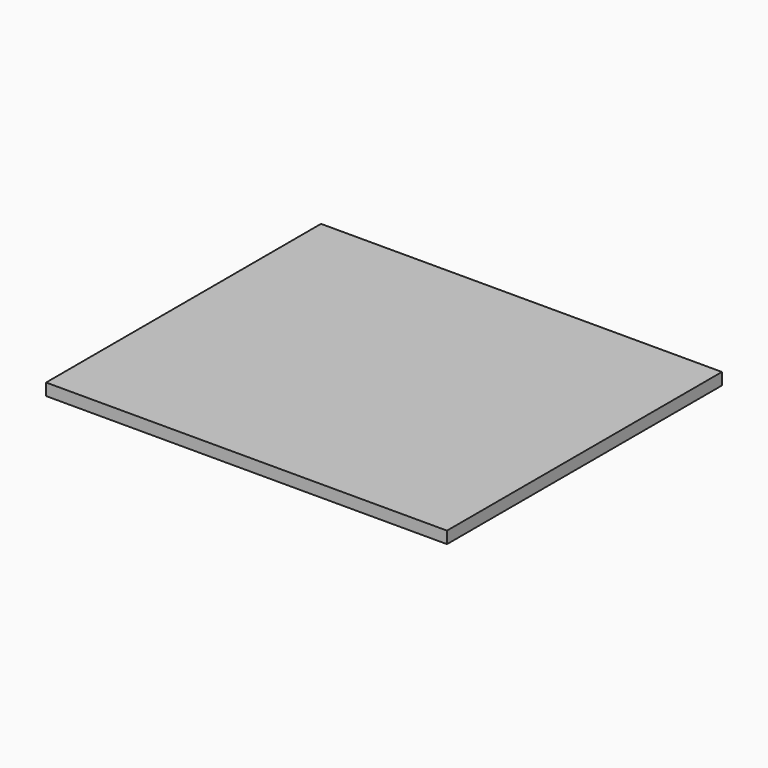
from build123d import *

# Parameters (mm, degrees)
F0_W     = 2133.6
F0_H     = 1828.8
F1_DEPTH = 12.7
F2_W     = 2133.6
F2_H     = 1828.8
F2_W_2   = 127
F2_H_2   = 127
F2_W_3   = 177.8
F2_H_3   = 177.8
F2_H_4   = 355.6
F2_W_4   = 152.4
F3_DEPTH = 50.8


with BuildPart() as f1:
    # F0 (on Top) → F1 (new body)
    with BuildSketch(Plane.XY):
        with Locations((-1066.8, 914.4)):
            Rectangle(F0_W, F0_H)
    extrude(amount=-F1_DEPTH)

    # F2 (on face) → F3 (join)
    with BuildSketch(Plane(origin=(0, 0, -12.7), x_dir=(1, 0, 0), z_dir=(0, 0, -1))):
        with Locations((-1066.8, -914.4)):
            Rectangle(F2_W, F2_H)
        with Locations((-2044.7, -1739.9)):
            Rectangle(F2_W_2, F2_H_2, mode=Mode.SUBTRACT)
        with Locations((-1892.3, -1739.9)):
            Rectangle(F2_W_2, F2_H_2, mode=Mode.SUBTRACT)
        with Locations((-1714.5, -1739.9)):
            Rectangle(F2_W_3, F2_H_2, mode=Mode.SUBTRACT)
        with Locations((-2044.7, -1587.5)):
            Rectangle(F2_W_2, F2_H_2, mode=Mode.SUBTRACT)
        with Locations((-1892.3, -1587.5)):
            Rectangle(F2_W_2, F2_H_2, mode=Mode.SUBTRACT)
        with Locations((-2044.7, -1409.7)):
            Rectangle(F2_W_2, F2_H_3, mode=Mode.SUBTRACT)
        with Locations((-1892.3, -1409.7)):
            Rectangle(F2_W_2, F2_H_3, mode=Mode.SUBTRACT)
        with Locations((-1714.5, -1587.5)):
            Rectangle(F2_W_3, F2_H_2, mode=Mode.SUBTRACT)
        with Locations((-1714.5, -1409.7)):
            Rectangle(F2_W_3, F2_H_3, mode=Mode.SUBTRACT)
        with Locations((-1511.3, -1739.9)):
            Rectangle(F2_W_3, F2_H_2, mode=Mode.SUBTRACT)
        with Locations((-1308.1, -1739.9)):
            Rectangle(F2_W_3, F2_H_2, mode=Mode.SUBTRACT)
        with Locations((-1104.9, -1739.9)):
            Rectangle(F2_W_3, F2_H_2, mode=Mode.SUBTRACT)
        with Locations((-1511.3, -1587.5)):
            Rectangle(F2_W_3, F2_H_2, mode=Mode.SUBTRACT)
        with Locations((-1308.1, -1587.5)):
            Rectangle(F2_W_3, F2_H_2, mode=Mode.SUBTRACT)
        with Locations((-1104.9, -1587.5)):
            Rectangle(F2_W_3, F2_H_2, mode=Mode.SUBTRACT)
        with Locations((-2044.7, -1206.5)):
            Rectangle(F2_W_2, F2_H_3, mode=Mode.SUBTRACT)
        with Locations((-1892.3, -1206.5)):
            Rectangle(F2_W_2, F2_H_3, mode=Mode.SUBTRACT)
        with Locations((-1714.5, -1206.5)):
            Rectangle(F2_W_3, F2_H_3, mode=Mode.SUBTRACT)
        with Locations((-2044.7, -914.4)):
            Rectangle(F2_W_2, F2_H_4, mode=Mode.SUBTRACT)
        with Locations((-1892.3, -914.4)):
            Rectangle(F2_W_2, F2_H_4, mode=Mode.SUBTRACT)
        with Locations((-1714.5, -914.4)):
            Rectangle(F2_W_3, F2_H_4, mode=Mode.SUBTRACT)
        with Locations((-901.7, -1739.9)):
            Rectangle(F2_W_3, F2_H_2, mode=Mode.SUBTRACT)
        with Locations((-698.5, -1739.9)):
            Rectangle(F2_W_3, F2_H_2, mode=Mode.SUBTRACT)
        with Locations((-901.7, -1587.5)):
            Rectangle(F2_W_3, F2_H_2, mode=Mode.SUBTRACT)
        with Locations((-698.5, -1587.5)):
            Rectangle(F2_W_3, F2_H_2, mode=Mode.SUBTRACT)
        with Locations((-495.3, -1739.9)):
            Rectangle(F2_W_3, F2_H_2, mode=Mode.SUBTRACT)
        with Locations((-292.1, -1739.9)):
            Rectangle(F2_W_3, F2_H_2, mode=Mode.SUBTRACT)
        with Locations((-101.6, -1739.9)):
            Rectangle(F2_W_4, F2_H_2, mode=Mode.SUBTRACT)
        with Locations((-495.3, -1587.5)):
            Rectangle(F2_W_3, F2_H_2, mode=Mode.SUBTRACT)
        with Locations((-292.1, -1587.5)):
            Rectangle(F2_W_3, F2_H_2, mode=Mode.SUBTRACT)
        with Locations((-292.1, -1409.7)):
            Rectangle(F2_W_3, F2_H_3, mode=Mode.SUBTRACT)
        with Locations((-101.6, -1587.5)):
            Rectangle(F2_W_4, F2_H_2, mode=Mode.SUBTRACT)
        with Locations((-101.6, -1409.7)):
            Rectangle(F2_W_4, F2_H_3, mode=Mode.SUBTRACT)
        with Locations((-292.1, -1206.5)):
            Rectangle(F2_W_3, F2_H_3, mode=Mode.SUBTRACT)
        with Locations((-101.6, -1206.5)):
            Rectangle(F2_W_4, F2_H_3, mode=Mode.SUBTRACT)
        with Locations((-292.1, -914.4)):
            Rectangle(F2_W_3, F2_H_4, mode=Mode.SUBTRACT)
        with Locations((-101.6, -914.4)):
            Rectangle(F2_W_4, F2_H_4, mode=Mode.SUBTRACT)
        with Locations((-2044.7, -622.3)):
            Rectangle(F2_W_2, F2_H_3, mode=Mode.SUBTRACT)
        with Locations((-1892.3, -622.3)):
            Rectangle(F2_W_2, F2_H_3, mode=Mode.SUBTRACT)
        with Locations((-1714.5, -622.3)):
            Rectangle(F2_W_3, F2_H_3, mode=Mode.SUBTRACT)
        with Locations((-2044.7, -419.1)):
            Rectangle(F2_W_2, F2_H_3, mode=Mode.SUBTRACT)
        with Locations((-1892.3, -419.1)):
            Rectangle(F2_W_2, F2_H_3, mode=Mode.SUBTRACT)
        with Locations((-2044.7, -241.3)):
            Rectangle(F2_W_2, F2_H_2, mode=Mode.SUBTRACT)
        with Locations((-1892.3, -241.3)):
            Rectangle(F2_W_2, F2_H_2, mode=Mode.SUBTRACT)
        with Locations((-1714.5, -419.1)):
            Rectangle(F2_W_3, F2_H_3, mode=Mode.SUBTRACT)
        with Locations((-1714.5, -241.3)):
            Rectangle(F2_W_3, F2_H_2, mode=Mode.SUBTRACT)
        with Locations((-2044.7, -88.9)):
            Rectangle(F2_W_2, F2_H_2, mode=Mode.SUBTRACT)
        with Locations((-1892.3, -88.9)):
            Rectangle(F2_W_2, F2_H_2, mode=Mode.SUBTRACT)
        with Locations((-1714.5, -88.9)):
            Rectangle(F2_W_3, F2_H_2, mode=Mode.SUBTRACT)
        with Locations((-1511.3, -241.3)):
            Rectangle(F2_W_3, F2_H_2, mode=Mode.SUBTRACT)
        with Locations((-1308.1, -241.3)):
            Rectangle(F2_W_3, F2_H_2, mode=Mode.SUBTRACT)
        with Locations((-1104.9, -241.3)):
            Rectangle(F2_W_3, F2_H_2, mode=Mode.SUBTRACT)
        with Locations((-1511.3, -88.9)):
            Rectangle(F2_W_3, F2_H_2, mode=Mode.SUBTRACT)
        with Locations((-1308.1, -88.9)):
            Rectangle(F2_W_3, F2_H_2, mode=Mode.SUBTRACT)
        with Locations((-1104.9, -88.9)):
            Rectangle(F2_W_3, F2_H_2, mode=Mode.SUBTRACT)
        with Locations((-292.1, -622.3)):
            Rectangle(F2_W_3, F2_H_3, mode=Mode.SUBTRACT)
        with Locations((-101.6, -622.3)):
            Rectangle(F2_W_4, F2_H_3, mode=Mode.SUBTRACT)
        with Locations((-901.7, -241.3)):
            Rectangle(F2_W_3, F2_H_2, mode=Mode.SUBTRACT)
        with Locations((-698.5, -241.3)):
            Rectangle(F2_W_3, F2_H_2, mode=Mode.SUBTRACT)
        with Locations((-901.7, -88.9)):
            Rectangle(F2_W_3, F2_H_2, mode=Mode.SUBTRACT)
        with Locations((-698.5, -88.9)):
            Rectangle(F2_W_3, F2_H_2, mode=Mode.SUBTRACT)
        with Locations((-292.1, -419.1)):
            Rectangle(F2_W_3, F2_H_3, mode=Mode.SUBTRACT)
        with Locations((-495.3, -241.3)):
            Rectangle(F2_W_3, F2_H_2, mode=Mode.SUBTRACT)
        with Locations((-292.1, -241.3)):
            Rectangle(F2_W_3, F2_H_2, mode=Mode.SUBTRACT)
        with Locations((-101.6, -419.1)):
            Rectangle(F2_W_4, F2_H_3, mode=Mode.SUBTRACT)
        with Locations((-101.6, -241.3)):
            Rectangle(F2_W_4, F2_H_2, mode=Mode.SUBTRACT)
        with Locations((-495.3, -88.9)):
            Rectangle(F2_W_3, F2_H_2, mode=Mode.SUBTRACT)
        with Locations((-292.1, -88.9)):
            Rectangle(F2_W_3, F2_H_2, mode=Mode.SUBTRACT)
        with Locations((-101.6, -88.9)):
            Rectangle(F2_W_4, F2_H_2, mode=Mode.SUBTRACT)
    extrude(amount=F3_DEPTH)


solid = f1.part
